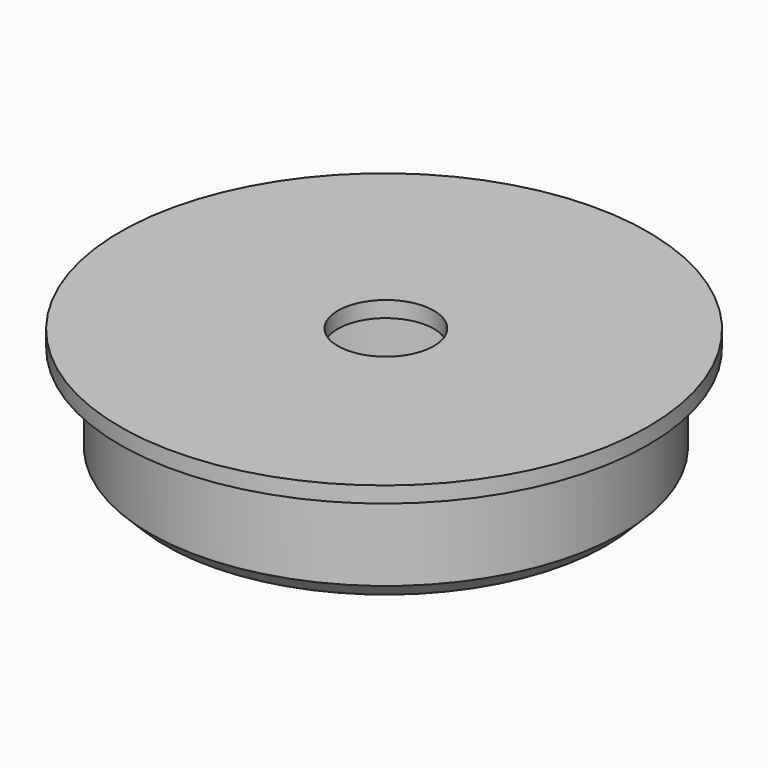
from build123d import *

# Parameters (mm, degrees)
F0_R     = 16.5
F1_DEPTH = 1
F2_R     = 14.75
F3_DEPTH = 6.5
F4_R     = 3
F5_DEPTH = 25
F6_R     = 7.5
F7_DEPTH = 6.5
F8_SIZE  = 1


with BuildPart() as f1:
    # F0 (on Top) → F1 (new body)
    with BuildSketch(Plane.XY):
        with Locations((1e-06, -0.140358)):
            Circle(F0_R)
    extrude(amount=F1_DEPTH)

    # F2 (on face) → F3 (join)
    with BuildSketch(Plane(origin=(0, 0, 0), x_dir=(1, 0, 0), z_dir=(0, 0, -1))):
        Circle(F2_R)
    extrude(amount=F3_DEPTH)

    # F4 (on face) → F5 (cut)
    with BuildSketch(Plane(origin=(0, 0, -6.5), x_dir=(1, 0, 0), z_dir=(0, 0, -1))):
        Circle(F4_R)
    extrude(amount=-F5_DEPTH, mode=Mode.SUBTRACT)

    # F6 (on face) → F7 (cut, through all)
    with BuildSketch(Plane(origin=(0, 0, -6.5), x_dir=(1, 0, 0), z_dir=(0, 0, -1))):
        Circle(F6_R)
    extrude(amount=-F7_DEPTH, mode=Mode.SUBTRACT)

    # F8
    f8_edges = [f1.edges().sort_by_distance(p)[0] for p in [
        (-7.5, 0, -6.5),
        (-14.75, 0, -6.5),
    ]]
    chamfer(f8_edges, length=F8_SIZE)


solid = f1.part
